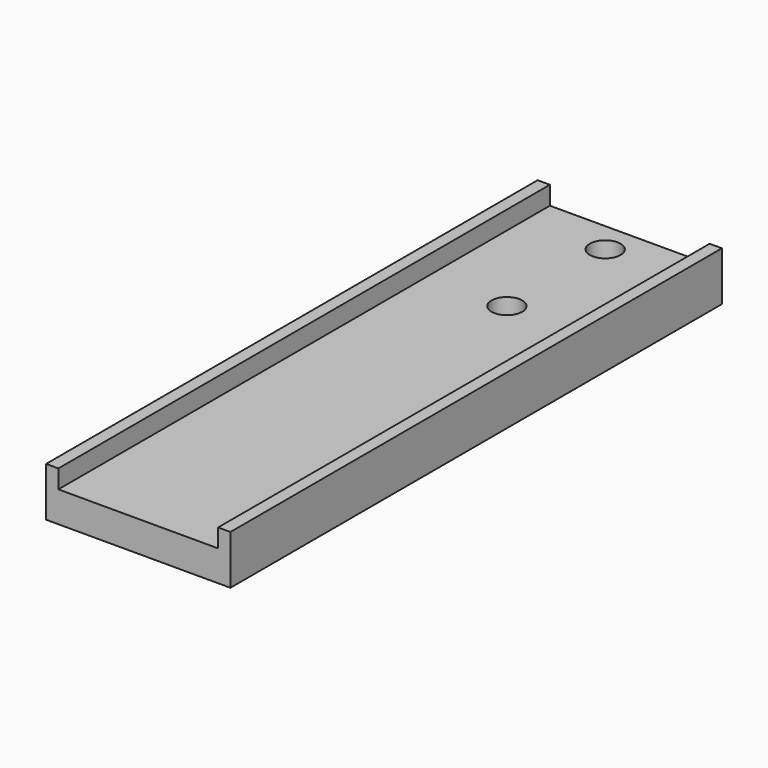
from build123d import *

# Parameters (mm, degrees)
F0_W     = 38.1
F0_H     = 127
F1_DEPTH = 6.35
F2_W     = 2.54
F2_H     = 127
F3_DEPTH = 3.81
F4_R     = 3.175
F5_DEPTH = 6.35


with BuildPart() as f1:
    # F0 (on Top) → F1 (new body)
    with BuildSketch(Plane.XY):
        with Locations((-1.942847, 22.285494)):
            Rectangle(F0_W, F0_H)
    extrude(amount=F1_DEPTH)

    # F2 (on face) → F3 (join)
    with BuildSketch(Plane.XY.offset(6.35)):
        with Locations((-19.722847, 22.285494)):
            Rectangle(F2_W, F2_H)
        with Locations((15.837153, 22.285494)):
            Rectangle(F2_W, F2_H)
    extrude(amount=F3_DEPTH)

    # F4 (on face) → F5 (cut)
    with BuildSketch(Plane.XY.offset(6.35)):
        with Locations((-1.942847, 79.435494)):
            Circle(F4_R)
        with Locations((-1.942847, 54.035494)):
            Circle(F4_R)
    extrude(amount=-F5_DEPTH, mode=Mode.SUBTRACT)


solid = f1.part
